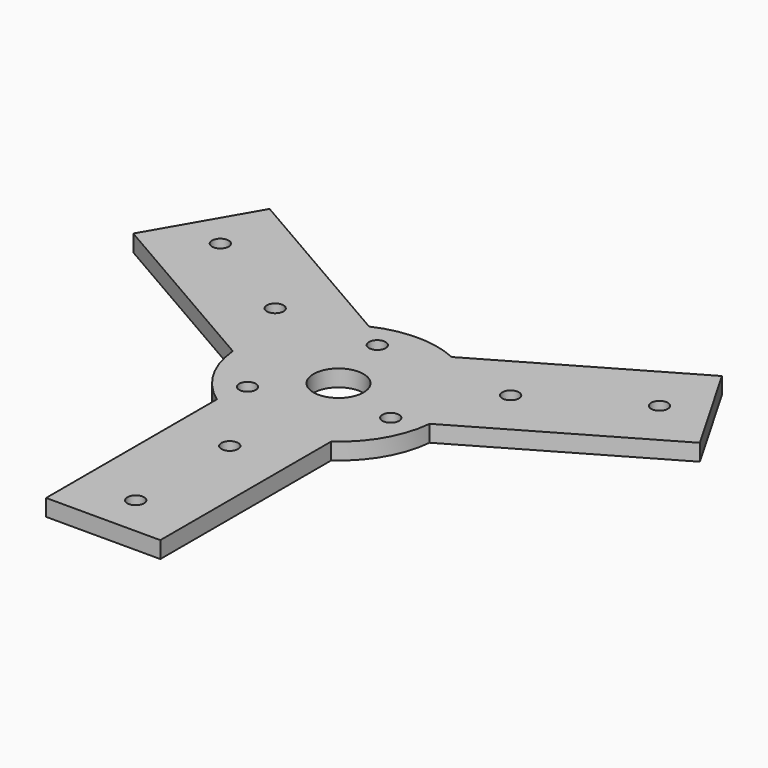
from build123d import *

# Parameters (mm, degrees)
F0_R     = 1
F0_R_2   = 3
F1_DEPTH = 2


with BuildPart() as f1:
    # F0 (on Top) → F1 (new body)
    with BuildSketch(Plane.XY):
        with BuildLine():
            Line((6.85, -35.27), (6.85, -9.66954))
            ThreePointArc((6.85, -9.66954), (10.262401, -5.925), (11.799067, -1.097504))
            Line((11.799067, -1.097504), (33.969716, 11.702726))
            Line((33.969716, 11.702726), (27.119716, 23.567274))
            Line((27.119716, 23.567274), (4.949067, 10.767044))
            ThreePointArc((4.949067, 10.767044), (0, 11.85), (-4.949067, 10.767044))
            Line((-4.949067, 10.767044), (-27.119716, 23.567274))
            Line((-27.119716, 23.567274), (-33.969716, 11.702726))
            Line((-33.969716, 11.702726), (-11.799067, -1.097504))
            ThreePointArc((-11.799067, -1.097504), (-10.262401, -5.925), (-6.85, -9.66954))
            Line((-6.85, -9.66954), (-6.85, -35.27))
            Line((-6.85, -35.27), (6.85, -35.27))
        make_face()
        with Locations((0, -30.4)):
            Circle(F0_R, mode=Mode.SUBTRACT)
        with Locations((0, -16.3)):
            Circle(F0_R, mode=Mode.SUBTRACT)
        with Locations((-6.199088, -5.888446)):
            Circle(F0_R, mode=Mode.SUBTRACT)
        Circle(F0_R_2, mode=Mode.SUBTRACT)
        with Locations((-14.116214, 8.15)):
            Circle(F0_R, mode=Mode.SUBTRACT)
        with Locations((-2, 8.312791)):
            Circle(F0_R, mode=Mode.SUBTRACT)
        with Locations((-26.327172, 15.2)):
            Circle(F0_R, mode=Mode.SUBTRACT)
        with Locations((8.199088, -2.424345)):
            Circle(F0_R, mode=Mode.SUBTRACT)
        with Locations((14.116214, 8.15)):
            Circle(F0_R, mode=Mode.SUBTRACT)
        with Locations((26.327172, 15.2)):
            Circle(F0_R, mode=Mode.SUBTRACT)
    extrude(amount=F1_DEPTH)


solid = f1.part
